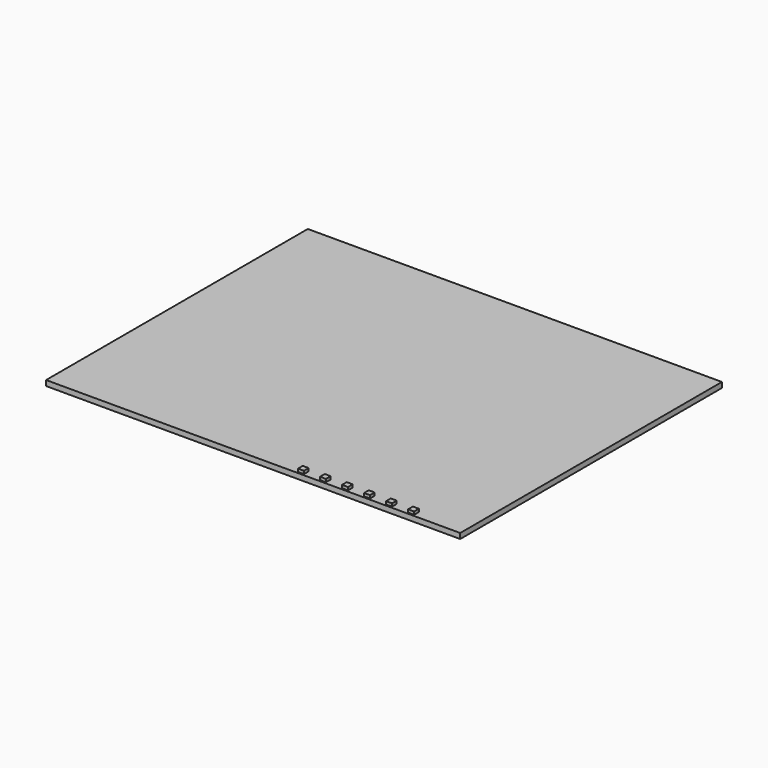
from build123d import *

# Parameters (mm, degrees)
F0_W     = 140
F0_H     = 110.6
F1_DEPTH = 1.8
F2_W     = 2
F2_H     = 2
F3_DEPTH = 1


with BuildPart() as f1:
    # F0 (on Top) → F1 (new body)
    with BuildSketch(Plane.XY):
        Rectangle(F0_W, F0_H)
    extrude(amount=F1_DEPTH)


with BuildPart() as f3:
    # F2 (on face) → F3 (new body)
    with BuildSketch(Plane.XY.offset(1.8)):
        with Locations((53, -53.8)):
            Rectangle(F2_W, F2_H)
        with Locations((45.55, -53.8)):
            Rectangle(F2_W, F2_H)
        with Locations((38.1, -53.8)):
            Rectangle(F2_W, F2_H)
        with Locations((30.65, -53.8)):
            Rectangle(F2_W, F2_H)
        with Locations((23.2, -53.8)):
            Rectangle(F2_W, F2_H)
        with Locations((15.75, -53.8)):
            Rectangle(F2_W, F2_H)
    extrude(amount=F3_DEPTH)


solid = Compound([f1.part, f3.part])
